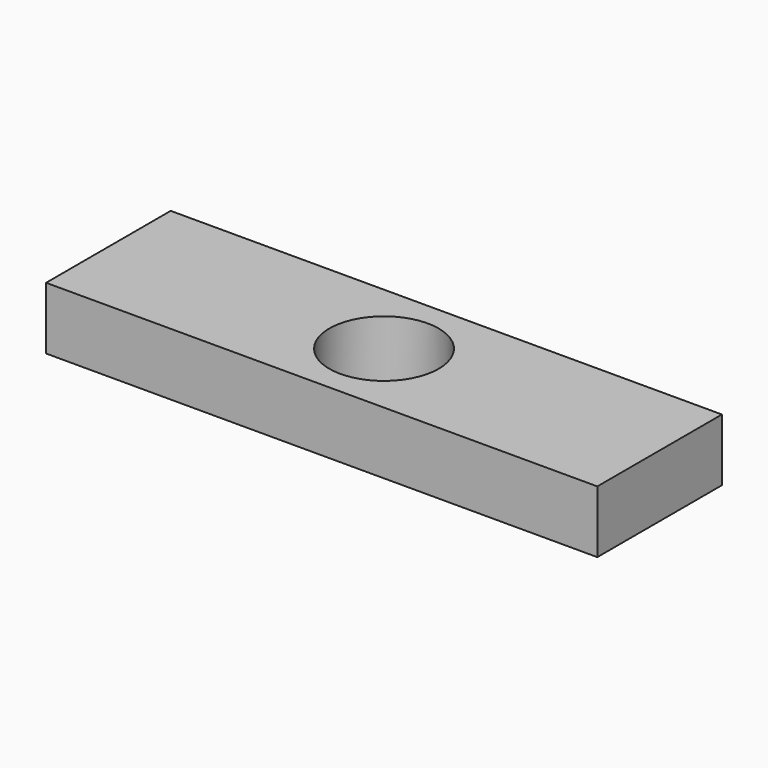
from build123d import *

# Parameters (mm, degrees)
F0_W     = 449.5038
F0_H     = 127
F0_R     = 44.5643
F1_DEPTH = 50.8
F2_DEPTH = 50.8


with BuildPart() as f1:
    # F0 (on Top) → F1 (new body)
    with BuildSketch(Plane.XY):
        with Locations((23.634577, -3.505918)):
            Rectangle(F0_W, F0_H)
        with Locations((23.634577, -3.505918)):
            Circle(F0_R, mode=Mode.SUBTRACT)
    extrude(amount=F1_DEPTH)

    # F0 (on Top) → F2 (join)
    with BuildSketch(Plane.XY):
        with Locations((23.634577, -3.505918)):
            Rectangle(F0_W, F0_H)
        with Locations((23.634577, -3.505918)):
            Circle(F0_R, mode=Mode.SUBTRACT)
    extrude(amount=F2_DEPTH)


solid = f1.part
